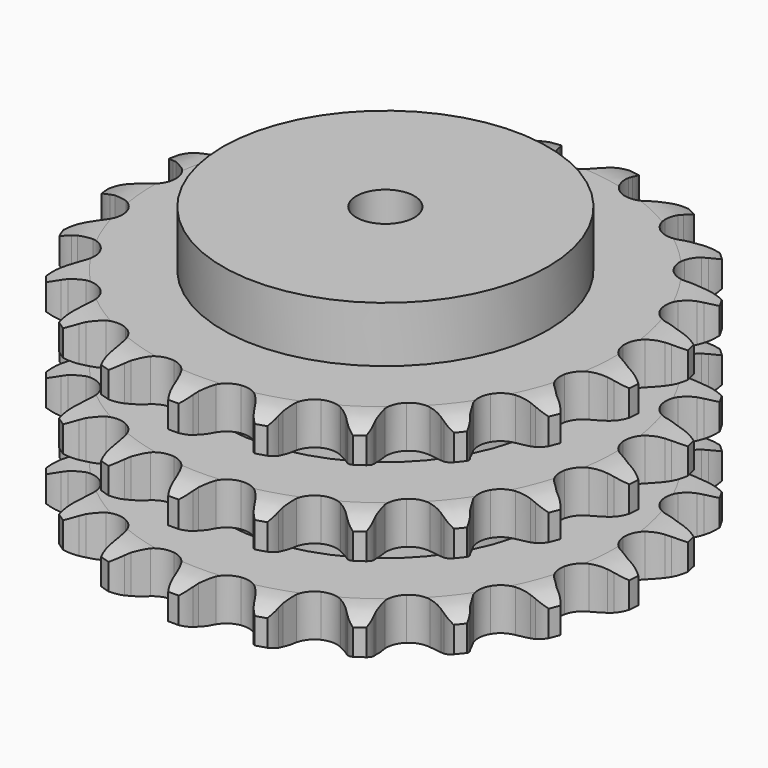
from build123d import *

# Parameters (mm, degrees)
PAD_DEPTH         = 91
SKETCH001_R       = 70
PAD001_DEPTH      = 115
SKETCH002_R       = 12.5
POCKET_DEPTH      = 0.001
POCKET_DEPTH_BACK = 115.001


with BuildPart() as part:
    # Sprocket → Pad (new body)
    with BuildSketch(Plane.XY):
        with BuildLine():
            ThreePointArc((-17.402896, 115.46067), (-14.126924, 112.411946), (-11.842062, 108.564074))
            Line((-11.842062, 108.564074), (-10.922482, 106.346618))
            ThreePointArc((-10.922482, 106.346618), (-9.447292, 103.369279), (-7.588084, 100.615358))
            ThreePointArc((-7.588084, 100.615358), (-4.22383, 97.880607), (0, 96.902685))
            ThreePointArc((0, 96.902685), (4.22383, 97.880607), (7.588084, 100.615358))
            ThreePointArc((7.588084, 100.615358), (9.447292, 103.369279), (10.922482, 106.346618))
            Line((10.922482, 106.346618), (11.842062, 108.564074))
            ThreePointArc((11.842062, 108.564074), (14.126924, 112.411946), (17.402896, 115.46067))
            ThreePointArc((17.402896, 115.46067), (19.634698, 111.581783), (20.68387, 107.231386))
            Line((20.68387, 107.231386), (20.908989, 104.841394))
            ThreePointArc((20.908989, 104.841394), (21.441054, 101.56151), (22.405931, 98.381927))
            ThreePointArc((22.405931, 98.381927), (24.814638, 94.777042), (28.562568, 92.597571))
            ThreePointArc((28.562568, 92.597571), (32.886992, 92.28705), (36.907864, 93.908673))
            Line((36.907864, 93.908673), (41.783442, 98.402478))
            ThreePointArc((41.783442, 98.402478), (42.527282, 99.344937), (43.315775, 100.250368))
            ThreePointArc((43.315775, 100.250368), (46.633307, 103.253815), (50.662364, 105.201483))
            ThreePointArc((50.662364, 105.201483), (51.651692, 100.837088), (51.37195, 96.370719))
            Line((51.37195, 96.370719), (50.882605, 94.020552))
            ThreePointArc((50.882605, 94.020552), (50.424269, 90.729555), (50.40908, 87.40683))
            ThreePointArc((50.40908, 87.40683), (51.648217, 83.252121), (54.587226, 80.064756))
            ThreePointArc((54.587226, 80.064756), (58.628001, 78.493384), (62.948219, 78.85779))
            Line((62.948219, 78.85779), (68.931761, 81.714846))
            ThreePointArc((68.931761, 81.714846), (69.920349, 82.396183), (70.940691, 83.028977))
            ThreePointArc((70.940691, 83.028977), (74.996116, 84.921129), (79.420259, 85.594682))
            ThreePointArc((79.420259, 85.594682), (79.079205, 81.132576), (77.495406, 76.94709))
            Line((77.495406, 76.94709), (76.335078, 74.845572))
            ThreePointArc((76.335078, 74.845572), (74.927066, 71.835882), (73.933162, 68.665253))
            ThreePointArc((73.933162, 68.665253), (73.892625, 64.329883), (75.76157, 60.417836))
            ThreePointArc((75.76157, 60.417836), (79.159655, 57.725237), (83.395348, 56.800047))
            Line((83.395348, 56.800047), (89.95519, 57.766492))
            ThreePointArc((89.95519, 57.766492), (91.100685, 58.126168), (92.262216, 58.430096))
            ThreePointArc((92.262216, 58.430096), (96.695191, 59.042828), (101.121315, 58.382418))
            ThreePointArc((101.121315, 58.382418), (99.480185, 54.219078), (96.733056, 50.686375))
            Line((96.733056, 50.686375), (95.004844, 49.020234))
            ThreePointArc((95.004844, 49.020234), (92.772264, 46.559275), (90.887957, 43.822466))
            ThreePointArc((90.887957, 43.822466), (89.571349, 39.691654), (90.204166, 35.402526))
            ThreePointArc((90.204166, 35.402526), (92.657626, 31.827949), (96.432434, 29.69537))
            Line((96.432434, 29.69537), (102.985706, 28.685331))
            ThreePointArc((102.985706, 28.685331), (104.186326, 28.691387), (105.385838, 28.639446))
            ThreePointArc((105.385838, 28.639446), (109.802474, 27.918313), (113.837299, 25.982621))
            ThreePointArc((113.837299, 25.982621), (111.041913, 22.487977), (107.375549, 19.921953))
            Line((107.375549, 19.921953), (105.233013, 18.839233))
            ThreePointArc((105.233013, 18.839233), (102.37424, 17.145672), (99.766959, 15.085861))
            ThreePointArc((99.766959, 15.085861), (97.291265, 11.526646), (96.631725, 7.241547))
            ThreePointArc((96.631725, 7.241547), (97.92256, 3.102608), (100.901075, -0.047871))
            Line((100.901075, -0.047871), (106.865489, -2.944647))
            ThreePointArc((106.865489, -2.944647), (108.014555, -3.29275), (109.145466, -3.695946))
            ThreePointArc((109.145466, -3.695946), (113.153326, -5.686867), (116.438339, -8.725847))
            ThreePointArc((116.438339, -8.725847), (112.73708, -11.241279), (108.477253, -12.612623))
            Line((108.477253, -12.612623), (106.110767, -13.015716))
            ThreePointArc((106.110767, -13.015716), (102.879815, -13.791399), (99.781229, -14.991189))
            ThreePointArc((99.781229, -14.991189), (96.366426, -17.662554), (94.473132, -21.562876))
            ThreePointArc((94.473132, -21.562876), (94.486645, -25.898414), (96.404213, -29.786858))
            Line((96.404213, -29.786858), (101.249805, -34.312981))
            ThreePointArc((101.249805, -34.312981), (102.245216, -34.984311), (103.20704, -35.702936))
            ThreePointArc((103.20704, -35.702936), (106.450007, -38.786744), (108.693321, -42.658985))
            ThreePointArc((108.693321, -42.658985), (104.415063, -43.971698), (99.940277, -44.026511))
            Line((99.940277, -44.026511), (97.560114, -43.714162))
            ThreePointArc((97.560114, -43.714162), (94.244067, -43.503044), (90.929498, -43.736206))
            ThreePointArc((90.929498, -43.736206), (86.879007, -45.282359), (83.920187, -48.451342))
            ThreePointArc((83.920187, -48.451342), (82.655177, -52.598247), (83.341414, -56.879153))
            Line((83.341414, -56.879153), (86.637632, -62.632456))
            ThreePointArc((86.637632, -62.632456), (87.390941, -63.567363), (88.098215, -64.537564))
            ThreePointArc((88.098215, -64.537564), (90.288139, -68.440248), (91.290425, -72.801685))
            ThreePointArc((91.290425, -72.801685), (86.815309, -72.795039), (82.523169, -71.52845))
            Line((82.523169, -71.52845), (80.340816, -70.528413))
            ThreePointArc((80.340816, -70.528413), (77.234321, -69.349252), (73.998283, -68.595069))
            ThreePointArc((73.998283, -68.595069), (69.672007, -68.878628), (65.910565, -71.034695))
            ThreePointArc((65.910565, -71.034695), (63.479434, -74.624496), (62.873364, -78.917484))
            Line((62.873364, -78.917484), (64.327325, -85.386762))
            ThreePointArc((64.327325, -85.386762), (64.771598, -86.502175), (65.161478, -87.637746))
            ThreePointArc((65.161478, -87.637746), (66.103773, -92.012536), (65.775975, -96.475636))
            ThreePointArc((65.775975, -96.475636), (61.501634, -95.150221), (57.773516, -92.674773))
            Line((57.773516, -92.674773), (55.982884, -91.075905))
            ThreePointArc((55.982884, -91.075905), (53.361965, -89.033475), (50.491995, -87.358959))
            ThreePointArc((50.491995, -87.358959), (46.274343, -86.354728), (42.044499, -87.306302))
            ThreePointArc((42.044499, -87.306302), (38.663264, -90.02003), (36.81874, -93.943652))
            Line((36.81874, -93.943652), (36.301252, -100.554079))
            ThreePointArc((36.301252, -100.554079), (36.397014, -101.75089), (36.434857, -102.950929))
            ThreePointArc((36.434857, -102.950929), (36.045797, -107.409106), (34.41704, -111.577303))
            ThreePointArc((34.41704, -111.577303), (30.723269, -109.050889), (27.890432, -105.586536))
            Line((27.890432, -105.586536), (26.650628, -103.530903))
            ThreePointArc((26.650628, -103.530903), (24.748165, -100.806683), (22.499272, -98.360622))
            ThreePointArc((22.499272, -98.360622), (18.765001, -96.157832), (14.442596, -95.820362))
            ThreePointArc((14.442596, -95.820362), (10.411694, -97.41689), (7.49261, -100.622513))
            Line((7.49261, -100.622513), (5.049654, -106.786726))
            ThreePointArc((5.049654, -106.786726), (4.788395, -107.958592), (4.47084, -109.116471))
            ThreePointArc((4.47084, -109.116471), (2.784993, -113.261906), (0, -116.764837))
            ThreePointArc((0, -116.764837), (-2.784993, -113.261906), (-4.47084, -109.116471))
            Line((-4.47084, -109.116471), (-5.049654, -106.786726))
            ThreePointArc((-5.049654, -106.786726), (-6.064618, -103.622775), (-7.49261, -100.622513))
            ThreePointArc((-7.49261, -100.622513), (-10.411694, -97.41689), (-14.442596, -95.820362))
            ThreePointArc((-14.442596, -95.820362), (-18.765001, -96.157832), (-22.499272, -98.360622))
            Line((-22.499272, -98.360622), (-26.650628, -103.530903))
            ThreePointArc((-26.650628, -103.530903), (-27.245693, -104.573698), (-27.890432, -105.586536))
            ThreePointArc((-27.890432, -105.586536), (-30.723269, -109.050889), (-34.41704, -111.577303))
            ThreePointArc((-34.41704, -111.577303), (-36.045797, -107.409106), (-36.434857, -102.950929))
            Line((-36.434857, -102.950929), (-36.301252, -100.554079))
            ThreePointArc((-36.301252, -100.554079), (-36.338533, -97.231528), (-36.81874, -93.943652))
            ThreePointArc((-36.81874, -93.943652), (-38.663264, -90.02003), (-42.044499, -87.306302))
            ThreePointArc((-42.044499, -87.306302), (-46.274343, -86.354728), (-50.491995, -87.358959))
            Line((-50.491995, -87.358959), (-55.982884, -91.075905))
            ThreePointArc((-55.982884, -91.075905), (-56.858882, -91.896973), (-57.773516, -92.674773))
            ThreePointArc((-57.773516, -92.674773), (-61.501634, -95.150221), (-65.775975, -96.475636))
            ThreePointArc((-65.775975, -96.475636), (-66.103773, -92.012536), (-65.161478, -87.637746))
            Line((-65.161478, -87.637746), (-64.327325, -85.386762))
            ThreePointArc((-64.327325, -85.386762), (-63.38361, -82.200834), (-62.873364, -78.917484))
            ThreePointArc((-62.873364, -78.917484), (-63.479434, -74.624496), (-65.910565, -71.034695))
            ThreePointArc((-65.910565, -71.034695), (-69.672007, -68.878628), (-73.998283, -68.595069))
            Line((-73.998283, -68.595069), (-80.340816, -70.528413))
            ThreePointArc((-80.340816, -70.528413), (-81.41991, -71.054799), (-82.523169, -71.52845))
            ThreePointArc((-82.523169, -71.52845), (-86.815309, -72.795039), (-91.290425, -72.801685))
            ThreePointArc((-91.290425, -72.801685), (-90.288139, -68.440248), (-88.098215, -64.537564))
            Line((-88.098215, -64.537564), (-86.637632, -62.632456))
            ThreePointArc((-86.637632, -62.632456), (-84.796775, -59.866234), (-83.341414, -56.879153))
            ThreePointArc((-83.341414, -56.879153), (-82.655177, -52.598247), (-83.920187, -48.451342))
            ThreePointArc((-83.920187, -48.451342), (-86.879007, -45.282359), (-90.929498, -43.736206))
            Line((-90.929498, -43.736206), (-97.560114, -43.714162))
            ThreePointArc((-97.560114, -43.714162), (-98.746422, -43.899094), (-99.940277, -44.026511))
            ThreePointArc((-99.940277, -44.026511), (-104.415063, -43.971698), (-108.693321, -42.658985))
            ThreePointArc((-108.693321, -42.658985), (-106.450007, -38.786744), (-103.20704, -35.702936))
            Line((-103.20704, -35.702936), (-101.249805, -34.312981))
            ThreePointArc((-101.249805, -34.312981), (-98.675375, -32.212257), (-96.404213, -29.786858))
            ThreePointArc((-96.404213, -29.786858), (-94.486645, -25.898414), (-94.473132, -21.562876))
            ThreePointArc((-94.473132, -21.562876), (-96.366426, -17.662554), (-99.781229, -14.991189))
            Line((-99.781229, -14.991189), (-106.110767, -13.015716))
            ThreePointArc((-106.110767, -13.015716), (-107.29888, -12.842761), (-108.477253, -12.612623))
            ThreePointArc((-108.477253, -12.612623), (-112.73708, -11.241279), (-116.438339, -8.725847))
            ThreePointArc((-116.438339, -8.725847), (-113.153326, -5.686867), (-109.145466, -3.695946))
            Line((-109.145466, -3.695946), (-106.865489, -2.944647))
            ThreePointArc((-106.865489, -2.944647), (-103.786234, -1.69608), (-100.901075, -0.047871))
            ThreePointArc((-100.901075, -0.047871), (-97.92256, 3.102608), (-96.631725, 7.241547))
            ThreePointArc((-96.631725, 7.241547), (-97.291265, 11.526646), (-99.766959, 15.085861))
            Line((-99.766959, 15.085861), (-105.233013, 18.839233))
            ThreePointArc((-105.233013, 18.839233), (-106.317362, 19.354707), (-107.375549, 19.921953))
            ThreePointArc((-107.375549, 19.921953), (-111.041913, 22.487977), (-113.837299, 25.982621))
            ThreePointArc((-113.837299, 25.982621), (-109.802474, 27.918313), (-105.385838, 28.639446))
            Line((-105.385838, 28.639446), (-102.985706, 28.685331))
            ThreePointArc((-102.985706, 28.685331), (-99.675231, 28.970802), (-96.432434, 29.69537))
            ThreePointArc((-96.432434, 29.69537), (-92.657626, 31.827949), (-90.204166, 35.402526))
            ThreePointArc((-90.204166, 35.402526), (-89.571349, 39.691654), (-90.887957, 43.822466))
            Line((-90.887957, 43.822466), (-95.004844, 49.020234))
            ThreePointArc((-95.004844, 49.020234), (-95.88908, 49.832424), (-96.733056, 50.686375))
            ThreePointArc((-96.733056, 50.686375), (-99.480185, 54.219078), (-101.121315, 58.382418))
            ThreePointArc((-101.121315, 58.382418), (-96.695191, 59.042828), (-92.262216, 58.430096))
            Line((-92.262216, 58.430096), (-89.95519, 57.766492))
            ThreePointArc((-89.95519, 57.766492), (-86.707647, 57.0635), (-83.395348, 56.800047))
            ThreePointArc((-83.395348, 56.800047), (-79.159655, 57.725237), (-75.76157, 60.417836))
            ThreePointArc((-75.76157, 60.417836), (-73.892625, 64.329883), (-73.933162, 68.665253))
            Line((-73.933162, 68.665253), (-76.335078, 74.845572))
            ThreePointArc((-76.335078, 74.845572), (-76.940633, 75.882312), (-77.495406, 76.94709))
            ThreePointArc((-77.495406, 76.94709), (-79.079205, 81.132576), (-79.420259, 85.594682))
            ThreePointArc((-79.420259, 85.594682), (-74.996116, 84.921129), (-70.940691, 83.028977))
            Line((-70.940691, 83.028977), (-68.931761, 81.714846))
            ThreePointArc((-68.931761, 81.714846), (-66.035707, 80.085857), (-62.948219, 78.85779))
            ThreePointArc((-62.948219, 78.85779), (-58.628001, 78.493384), (-54.587226, 80.064756))
            ThreePointArc((-54.587226, 80.064756), (-51.648217, 83.252121), (-50.40908, 87.40683))
            Line((-50.40908, 87.40683), (-50.882605, 94.020552))
            ThreePointArc((-50.882605, 94.020552), (-51.155672, 95.189723), (-51.37195, 96.370719))
            ThreePointArc((-51.37195, 96.370719), (-51.651692, 100.837088), (-50.662364, 105.201483))
            ThreePointArc((-50.662364, 105.201483), (-46.633307, 103.253815), (-43.315775, 100.250368))
            Line((-43.315775, 100.250368), (-41.783442, 98.402478))
            ThreePointArc((-41.783442, 98.402478), (-39.496205, 95.992233), (-36.907864, 93.908673))
            ThreePointArc((-36.907864, 93.908673), (-32.886992, 92.28705), (-28.562568, 92.597571))
            ThreePointArc((-28.562568, 92.597571), (-24.814638, 94.777042), (-22.405931, 98.381927))
            Line((-22.405931, 98.381927), (-20.908989, 104.841394))
            ThreePointArc((-20.908989, 104.841394), (-20.825306, 106.03911), (-20.68387, 107.231386))
            ThreePointArc((-20.68387, 107.231386), (-19.634698, 111.581783), (-17.402896, 115.46067))
        make_face()
    extrude(amount=PAD_DEPTH)

    # Sketch → Groove (revolve, cut)
    with BuildSketch(Plane.XZ):
        with BuildLine():
            ThreePointArc((99.548368, 0), (107.031683, 0.887302), (114.1, 3.5))
            Line((114.1, 3.5), (114.1, 14.7))
            ThreePointArc((114.1, 14.7), (107.031683, 17.312698), (99.548368, 18.2))
            Line((70, 18.2), (99.548368, 18.2))
            Line((70, 18.2), (70, 36.4))
            Line((70, 36.4), (99.548368, 36.4))
            ThreePointArc((99.548368, 36.4), (107.031683, 37.287302), (114.1, 39.9))
            Line((114.1, 51.1), (114.1, 39.9))
            ThreePointArc((114.1, 51.1), (107.031683, 53.712698), (99.548368, 54.6))
            Line((70, 54.6), (99.548368, 54.6))
            Line((70, 72.8), (70, 54.6))
            Line((99.548368, 72.8), (70, 72.8))
            ThreePointArc((99.548368, 72.8), (107.031683, 73.687302), (114.1, 76.3))
            Line((114.1, 76.3), (114.1, 87.5))
            ThreePointArc((114.1, 87.5), (107.031683, 90.112698), (99.548368, 91))
            Line((99.548368, 91), (124.1, 91))
            Line((124.1, 91), (124.1, 0))
            Line((99.548368, 0), (124.1, 0))
        make_face()
    revolve(axis=Axis((0, 0, 0), (0, 0, 1)), mode=Mode.SUBTRACT)

    # Sketch001 → Pad001 (join)
    with BuildSketch(Plane.XY):
        Circle(SKETCH001_R)
    extrude(amount=PAD001_DEPTH)

    # Sketch002 → Pocket (cut, two sides)
    with BuildSketch(Plane.XY) as pocket_sk:
        Circle(SKETCH002_R)
    extrude(amount=-POCKET_DEPTH, mode=Mode.SUBTRACT)
    extrude(pocket_sk.sketch, amount=POCKET_DEPTH_BACK, mode=Mode.SUBTRACT)


solid = part.part
